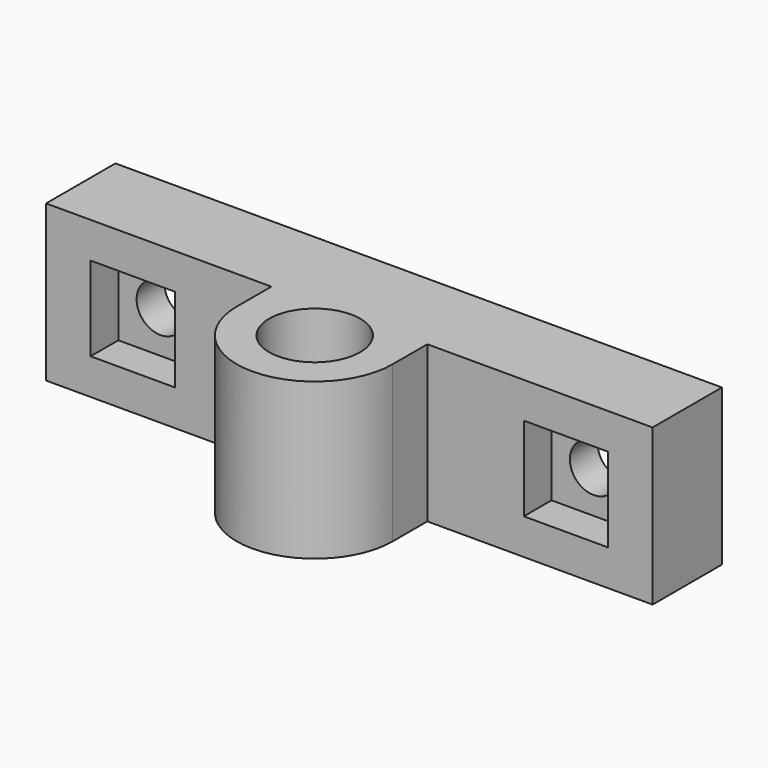
from build123d import *

# Parameters (mm, degrees)
SKETCH064_R     = 5.25
PAD044_DEPTH    = 9
SKETCH065_R     = 2.75
POCKET016_DEPTH = 15.001
SKETCH066_R     = 6.5
POCKET017_DEPTH = 2
SKETCH067_R     = 9
PAD045_DEPTH    = 2
SKETCH068_W     = 9.725
SKETCH068_H     = 9.725
POCKET018_DEPTH = 4


with BuildPart() as part:
    # Sketch064 → Pad044 (new body, symmetric)
    with BuildSketch(Plane.XY):
        with BuildLine():
            Line((35, 15), (-35, 15))
            Line((-35, 15), (-35, 5))
            Line((-35, 5), (-9, 5))
            Line((-9, 5), (-9, 0))
            ThreePointArc((-9, 0), (0, -9), (9, 0))
            Line((9, 0), (9, 5))
            Line((9, 5), (35, 5))
            Line((35, 5), (35, 15))
        make_face()
        Circle(SKETCH064_R, mode=Mode.SUBTRACT)
    extrude(amount=PAD044_DEPTH, both=True)

    # Sketch065 → Pocket016 (cut, through all)
    with BuildSketch(Plane.XZ):
        with Locations((-25, 0)):
            Circle(SKETCH065_R)
        with Locations((25, 0)):
            Circle(SKETCH065_R)
    extrude(amount=-POCKET016_DEPTH, mode=Mode.SUBTRACT)

    # Sketch066 → Pocket017 (cut)
    with BuildSketch(Plane.XZ.offset(-15)):
        with Locations((-25, 0)):
            Circle(SKETCH066_R)
        with Locations((25, 0)):
            Circle(SKETCH066_R)
    extrude(amount=POCKET017_DEPTH, mode=Mode.SUBTRACT)

    # Sketch067 → Pad045 (join)
    with BuildSketch(Plane.XY.offset(-9)):
        Circle(SKETCH067_R)
    extrude(amount=PAD045_DEPTH)

    # Sketch068 → Pocket018 (cut)
    with BuildSketch(Plane.XZ.offset(-5)):
        with Locations((-25, 0)):
            Rectangle(SKETCH068_W, SKETCH068_H)
        with Locations((25, 0)):
            Rectangle(SKETCH068_W, SKETCH068_H)
    extrude(amount=-POCKET018_DEPTH, mode=Mode.SUBTRACT)


solid = part.part
